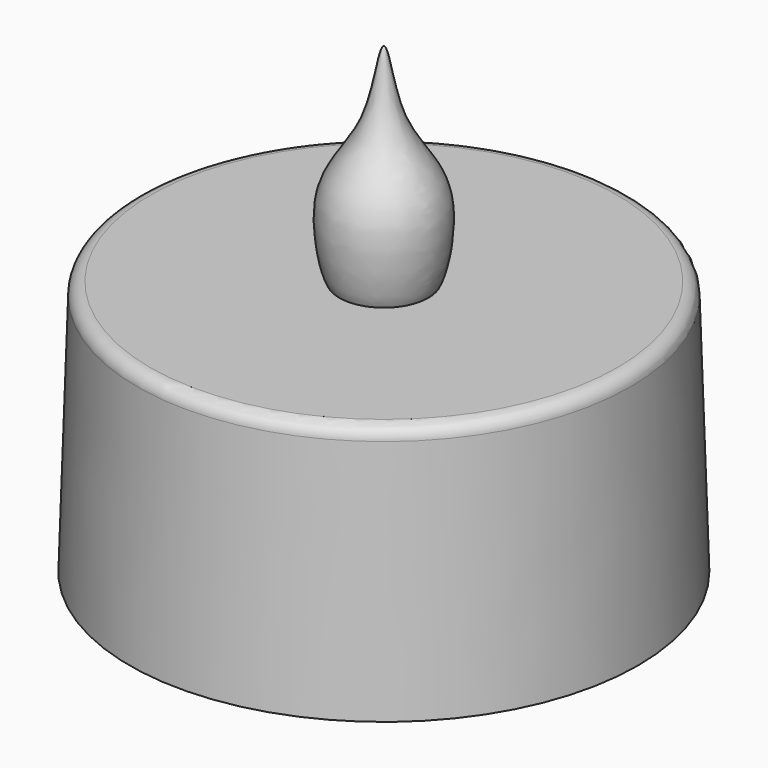
from build123d import *

# Parameters (mm, degrees)
F0_R     = 19.4
F1_DEPTH = 19.5
F1_TAPER = 1.8
F2_R     = 1


with BuildPart() as f1:
    # F0 (on Top) → F1 (new body)
    with BuildSketch(Plane.XY):
        Circle(F0_R)
    extrude(amount=F1_DEPTH, taper=F1_TAPER)

    # F2
    f2_edges = [f1.edges().sort_by_distance(p)[0] for p in [
        (-18.787188, 0, 19.5),
    ]]
    fillet(f2_edges, radius=F2_R)


with BuildPart() as f4:
    # F3 (on Front) → F4 (revolve)
    with BuildSketch(Plane.XZ):
        with BuildLine():
            Line((0, 35.3), (0, 19.5))
            Line((0, 19.5), (3.4, 19.5))
            add(Edge.make_bspline(
                [(0, 35.3), (0.3514138506, 35.3), (0.7626081453, 29.46873678), (5.1272824874, 26.2278929629), (3.8115450167, 20.1232167091), (3.4, 19.5)],
                knots=[0, 0, 0, 0, 0.3118431753, 0.6610847354, 1, 1, 1, 1], degree=3))
        make_face()
    revolve(axis=Axis((0, 0, 27.4), (0, 0, 1)))


solid = Compound([f1.part, f4.part])
